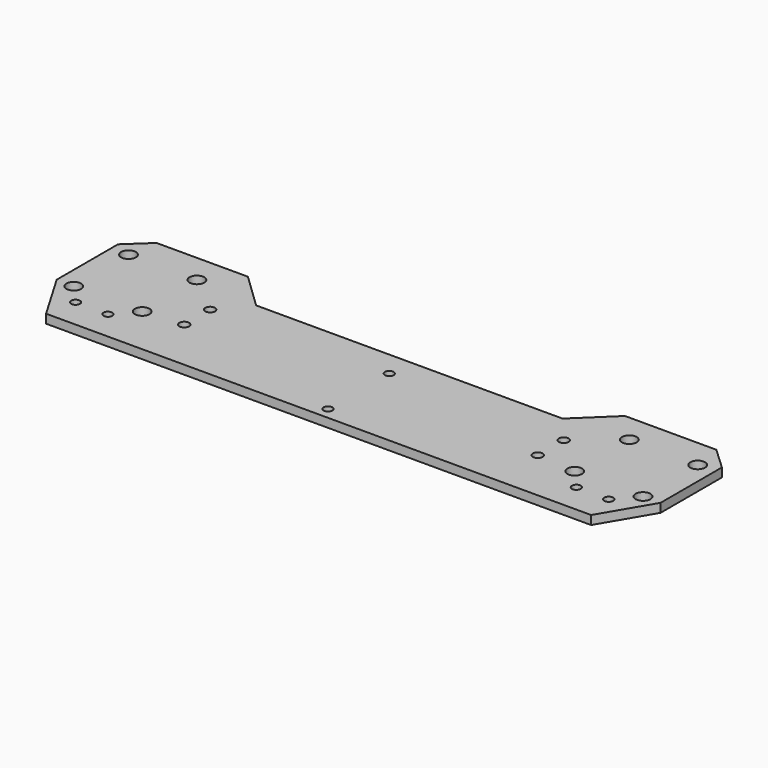
from build123d import *

# Parameters (mm, degrees)
SKETCH_R     = 2.5
SKETCH_R_2   = 1.5
SKETCH_R_3   = 1.65
PAD_DEPTH    = 3
SKETCH001_R  = 1.5
POCKET_DEPTH = 3.001


with BuildPart() as part:
    # Sketch → Pad (new body)
    with BuildSketch(Plane.XY):
        Polygon((0, -11.5), (-52, -11.5), (-64, 0), (-95, 0), (-102.5, -7), (-102.5, -33), (-92.5, -50), (0, -50), align=None)
        with Locations((-96.6, -9.9)):
            Circle(SKETCH_R, mode=Mode.SUBTRACT)
        with Locations((-73.4, -9.9)):
            Circle(SKETCH_R, mode=Mode.SUBTRACT)
        with Locations((-73.4, -33.1)):
            Circle(SKETCH_R, mode=Mode.SUBTRACT)
        with Locations((-96.6, -33.1)):
            Circle(SKETCH_R, mode=Mode.SUBTRACT)
        with Locations((-90.5, -40)):
            Circle(SKETCH_R_2, mode=Mode.SUBTRACT)
        with Locations((-79.5, -40)):
            Circle(SKETCH_R_2, mode=Mode.SUBTRACT)
        with Locations((-60, -21)):
            Circle(SKETCH_R_3, mode=Mode.SUBTRACT)
        with Locations((-60, -32)):
            Circle(SKETCH_R_3, mode=Mode.SUBTRACT)
    pad = extrude(amount=PAD_DEPTH)

    # Mirrored: Pad across Sketch V_Axis
    add(pad.mirror(Plane(origin=(0, 0, 0), x_dir=(0, 0, 1), z_dir=(1, 0, 0))))

    # Sketch001 → Pocket (cut, through all)
    with BuildSketch(Plane.XY.offset(3)):
        with Locations((0, -20)):
            Circle(SKETCH001_R)
        with Locations((0, -46)):
            Circle(SKETCH001_R)
    extrude(amount=-POCKET_DEPTH, mode=Mode.SUBTRACT)


solid = part.part
